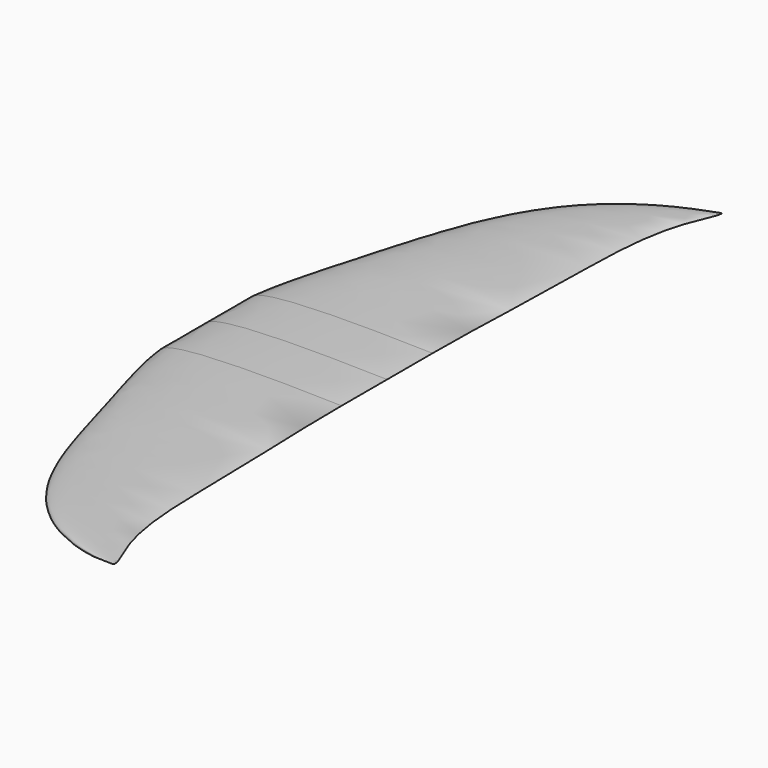
from build123d import *

# Parameters (mm, degrees)
PART_MIRRORING002_PLACEMENT_ANGLE = 180
FUSION016_PLACEMENT_ANGLE         = 179


with BuildPart() as additiveloft008:
    # Sketch076 → AdditiveLoft007 section 0
    with BuildSketch(Plane(origin=(-95.25, 284.48, 0), x_dir=(0.990099, 0.099504, 0.09901), z_dir=(0.09901, -0.995037, 0.009901))):
        with BuildLine():
            add(Edge.make_bspline(
                [(-0.642491, 0.016306), (0.942151, 0.395123), (1.968355, 0.0803), (1.082123, -0.056559), (-0.642491, 0.016306)],
                knots=[0, 0, 0, 0, 0.5, 1, 1, 1, 1], degree=3))
        make_face()
    # Sketch077 → AdditiveLoft007 section 1
    with BuildSketch(Plane(origin=(-88.9, 279.4, 0), x_dir=(0.996413, 0.059892, 0.059785), z_dir=(0.059785, -0.998205, 0.003587))):
        with BuildLine():
            add(Edge.make_bspline(
                [(-6.424909, 0.163064), (9.421511, 3.951227), (19.683554, 0.802995), (10.821227, -0.565587), (-6.424909, 0.163064)],
                knots=[0, 0, 0, 0, 0.5, 1, 1, 1, 1], degree=3))
        make_face()
    # Sketch078 → AdditiveLoft007 section 2
    with BuildSketch(Plane(origin=(-63.5, 254, 0), x_dir=(0.998403, 0.039968, 0.039936), z_dir=(0.039936, -0.999201, 0.001597))):
        with BuildLine():
            add(Edge.make_bspline(
                [(-21.416362, 0.543546), (31.405036, 13.170757), (65.611848, 2.67665), (36.070756, -1.885291), (-21.416362, 0.543546)],
                knots=[0, 0, 0, 0, 0.5, 1, 1, 1, 1], degree=3))
        make_face()
    # Sketch079 → AdditiveLoft007 section 3
    with BuildSketch(Plane(origin=(-25.4, 152.4, 0), x_dir=(0.9996, 0.019996, 0.019992), z_dir=(0.019992, -0.9998, 0.0004))):
        with BuildLine():
            add(Edge.make_bspline(
                [(-42.832724, 1.087092), (62.810073, 26.341514), (131.223696, 5.3533), (72.141512, -3.770583), (-42.832724, 1.087092)],
                knots=[0, 0, 0, 0, 0.5, 1, 1, 1, 1], degree=3))
        make_face()
    # Sketch081 → AdditiveLoft007 section 4
    with BuildSketch(Plane(origin=(-12.7, 50.8, 0), x_dir=(1, 0, 0), z_dir=(0, 1, 0))):
        with BuildLine():
            add(Edge.make_bspline(
                [(-52.011165, -1.32004), (76.269374, -31.986124), (159.34306, -6.500436), (87.600408, 4.578565), (-52.011165, -1.32004)],
                knots=[0, 0, 0, 0, 0.5, 1, 1, 1, 1], degree=3))
        make_face()
    # Sketch082 → AdditiveLoft007 section 5
    with BuildSketch(Plane(origin=(-3.81, -25.4, 0), x_dir=(1, 0, 0), z_dir=(0, 1, 0))):
        with BuildLine():
            add(Edge.make_bspline(
                [(-58.130126, -1.475339), (85.242241, -35.749197), (178.089302, -7.265193), (97.906338, 5.11722), (-58.130126, -1.475339)],
                knots=[0, 0, 0, 0, 0.5, 1, 1, 1, 1], degree=3))
        make_face()
    # Sketch080 → AdditiveLoft007 section 6
    with BuildSketch(Plane.XZ.offset(76.2)):
        with BuildLine():
            add(Edge.make_bspline(
                [(-61.189606, 1.552988), (89.728675, 37.630734), (187.462423, 7.647572), (103.059303, -5.386547), (-61.189606, 1.552988)],
                knots=[0, 0, 0, 0, 0.5, 1, 1, 1, 1], degree=3))
        make_face()
    loft()

    # Sketch080 → AdditiveLoft008 section 0
    with BuildSketch(Plane.XZ.offset(76.2)):
        with BuildLine():
            add(Edge.make_bspline(
                [(-61.189606, 1.552988), (89.728675, 37.630734), (187.462423, 7.647572), (103.059303, -5.386547), (-61.189606, 1.552988)],
                knots=[0, 0, 0, 0, 0.5, 1, 1, 1, 1], degree=3))
        make_face()
    # Sketch083 → AdditiveLoft008 section 1
    with BuildSketch(Plane(origin=(0, -139.7, 0), x_dir=(1, 0, 0), z_dir=(0, 1, 0))):
        with BuildLine():
            add(Edge.make_bspline(
                [(-61.189606, -1.552988), (89.728675, -37.630734), (187.462423, -7.647572), (103.059303, 5.386547), (-61.189606, -1.552988)],
                knots=[0, 0, 0, 0, 0.5, 1, 1, 1, 1], degree=3))
        make_face()
    loft()


with BuildPart() as part_mirroring002:
    # Part__Mirroring002: instance of AdditiveLoft008
    add(additiveloft008.part.mirror(Plane(origin=(0, 0, 0), x_dir=(0, 1, 0), z_dir=(0, 0, 1))))


with BuildPart() as part_mirroring002_1:
    # Part__Mirroring002 placement: moved
    add(part_mirroring002.part.moved(Location((0, -279.4, 0))).rotate(Axis((0, -279.4, 0), (1, 0, 0)), PART_MIRRORING002_PLACEMENT_ANGLE))


with BuildPart() as obj1:
    # AdditiveLoft009 base: copy of AdditiveLoft008
    add(additiveloft008.part)

    # Sketch084 → AdditiveLoft009 section 0
    with BuildSketch(Plane.XZ.offset(76.2)):
        with BuildLine():
            add(Edge.make_bspline(
                [(-61.189606, 1.552988), (89.728675, 37.630734), (187.462423, 7.647572), (103.059303, -5.386547), (-61.189606, 1.552988)],
                knots=[0, 0, 0, 0, 0.5, 1, 1, 1, 1], degree=3))
        make_face()
    # Sketch085 → AdditiveLoft009 section 1
    with BuildSketch(Plane(origin=(0, -139.7, 0), x_dir=(1, 0, 0), z_dir=(0, 1, 0))):
        with BuildLine():
            add(Edge.make_bspline(
                [(-61.189606, -1.552988), (89.728675, -37.630734), (187.462423, -7.647572), (103.059303, 5.386547), (-61.189606, -1.552988)],
                knots=[0, 0, 0, 0, 0.5, 1, 1, 1, 1], degree=3))
        make_face()
    loft()

    # Fusion016: union Part__Mirroring002
    add(part_mirroring002_1.part)


with BuildPart() as obj1_1:
    # Fusion016 placement: moved
    add(obj1.part.moved(Location((-297.784486, 139.892, 951.535781))).rotate(Axis((-297.784486, 139.892, 951.535781), (0, 1, 0)), FUSION016_PLACEMENT_ANGLE))


solid = obj1_1.part
